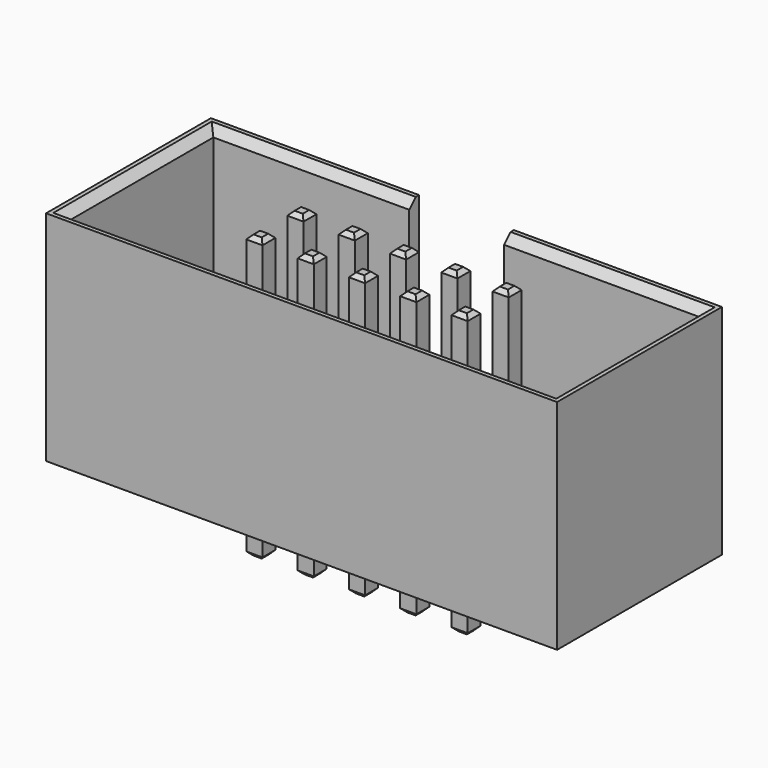
from build123d import *

# Parameters (mm, degrees)
SKETCH001_W     = 12.65
SKETCH001_H     = 5.4
PAD001_DEPTH    = 5.1
SKETCH002_W     = 12.05
SKETCH002_H     = 4.5
POCKET_DEPTH    = 5.1
CHAMFER002_SIZE = 0.2
SKETCH004_W     = 2.35
SKETCH004_H     = 1
POCKET001_DEPTH = 3.5
SKETCH005_W     = 0.4
SKETCH005_H     = 0.4
PAD002_DEPTH    = 7
CHAMFER_SIZE    = 0.1
ARRAY_X_COUNT   = 5
ARRAY_X_PITCH   = 1.27
ARRAY_Y_COUNT   = 2
ARRAY_Y_PITCH   = 1.27


with BuildPart() as pocket001:
    # Sketch001 → Pad001 (new body)
    with BuildSketch(Plane.XZ):
        with Locations((6.325, 2.7)):
            Rectangle(SKETCH001_W, SKETCH001_H)
    extrude(amount=PAD001_DEPTH)

    # Sketch002 → Pocket (cut)
    with BuildSketch(Plane(origin=(0, 0, 5.4), x_dir=(-1, 0, 0), z_dir=(0, 0, 1))):
        with Locations((-6.325, 2.55)):
            Rectangle(SKETCH002_W, SKETCH002_H)
    extrude(amount=-POCKET_DEPTH, mode=Mode.SUBTRACT)

    # Chamfer002
    chamfer002_edges = [pocket001.edges().sort_by_distance(p)[0] for p in [
        (0.3, -2.55, 5.4),
        (6.325, -0.3, 5.4),
        (6.325, -4.8, 5.4),
        (12.35, -2.55, 5.4),
    ]]
    chamfer(chamfer002_edges, length=CHAMFER002_SIZE)

    # Sketch004 → Pocket001 (cut)
    with BuildSketch(Plane(origin=(0, 0, 5.4), x_dir=(-1, 0, 0), z_dir=(0, 0, 1))):
        with Locations((-6.325, 0.5)):
            Rectangle(SKETCH004_W, SKETCH004_H)
    extrude(amount=-POCKET001_DEPTH, mode=Mode.SUBTRACT)


with BuildPart() as array:
    # Sketch005 → Pad002 (new body)
    with BuildSketch(Plane.XY.offset(-1.6)):
        with Locations((3.785, -1.915)):
            Rectangle(SKETCH005_W, SKETCH005_H)
    extrude(amount=PAD002_DEPTH)

    # Chamfer
    chamfer_edges = [array.edges().sort_by_distance(p)[0] for p in [
        (3.785, -2.115, 5.4),
        (3.585, -1.915, 5.4),
        (3.785, -1.715, 5.4),
        (3.985, -1.915, 5.4),
        (3.785, -2.115, -1.6),
        (3.585, -1.915, -1.6),
        (3.785, -1.715, -1.6),
        (3.985, -1.915, -1.6),
    ]]
    chamfer(chamfer_edges, length=CHAMFER_SIZE)

    # Array X: Array ×5


with BuildPart() as array_1:
    add(array.part)
    with Locations(*[(i * ARRAY_X_PITCH, 0, 0) for i in range(1, ARRAY_X_COUNT)]):
        add(array.part)

    # Array Y: Array ×2


with BuildPart() as array_2:
    add(array_1.part)
    with Locations(*[(0, -i * ARRAY_Y_PITCH, 0) for i in range(1, ARRAY_Y_COUNT)]):
        add(array_1.part)


solid = Compound([pocket001.part, array_2.part])
